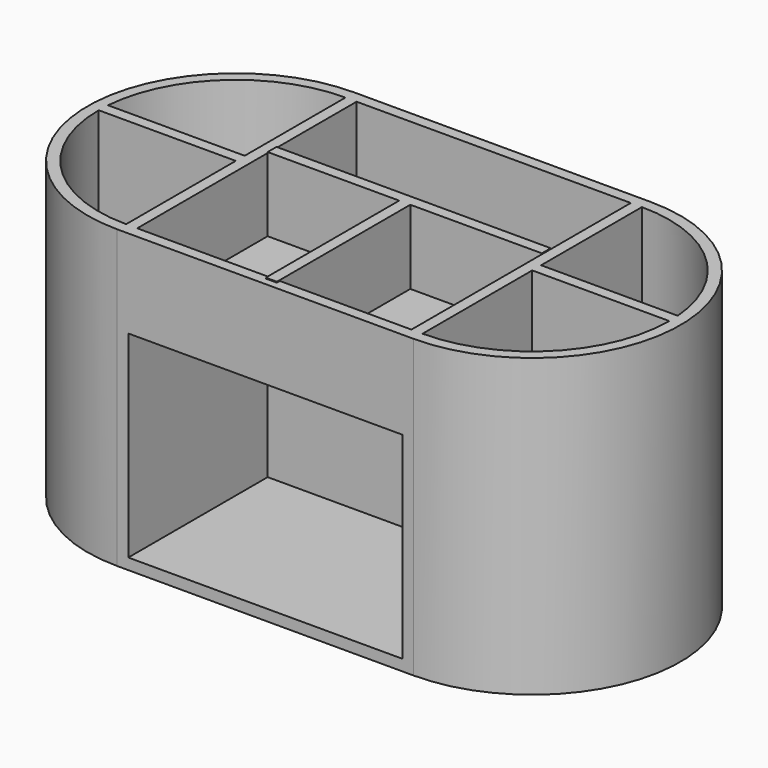
from build123d import *

# Parameters (mm, degrees)
F0_W      = 50.8
F0_H      = 101.6
F1_DEPTH  = 101.6
F4_DEPTH  = 101.6
F5_T      = -3.81
F6_W      = 3.81
F6_H      = 101.6
F7_DEPTH  = 101.6
F8_DEPTH  = 25.4
F9_W      = 50.8
F9_H      = 5.08
F10_DEPTH = 63.5
F11_W     = 46.99
F11_H     = 3.81
F12_DEPTH = 25.4
F13_DEPTH = 101.6
F14_DEPTH = 25.4
F15_W     = 1.905
F15_H     = 25.4
F16_DEPTH = 57.15
F18_W     = 3.81
F18_H     = 97.79
F19_DEPTH = 49.53


with BuildPart() as f1:
    # F0 (on Top) → F1 (new body)
    with BuildSketch(Plane.XY):
        with Locations((25.4, -50.8)):
            Rectangle(F0_W, F0_H)
    extrude(amount=F1_DEPTH)

    # F2 (on face) → F4 (join)
    with BuildSketch(Plane.XY.offset(101.6)):
        with BuildLine():
            Line((50.8, 0), (50.8, -101.6))
            ThreePointArc((50.8, -101.6), (101.6, -50.8), (50.8, 0))
        make_face()
    extrude(amount=-F4_DEPTH)

    # F5
    f5_openings = [f1.faces().sort_by_distance(p)[0] for p in [
        (46.057827, -50.8, 101.6),
    ]]
    offset(amount=F5_T, openings=f5_openings)

    # F6 (on face) → F7 (join)
    with BuildSketch(Plane.XZ.offset(101.6)):
        with Locations((48.895, 50.8)):
            Rectangle(F6_W, F6_H)
    extrude(amount=-F7_DEPTH)

    # F8 (cut): a face of the model
    f8_faces = [f1.faces().sort_by_distance(p)[0] for p in [
        (3.81, -50.8, 52.705),
    ]]
    extrude(f8_faces, amount=-F8_DEPTH, mode=Mode.SUBTRACT)

    # F9 (on face) → F10 (join)
    with BuildSketch(Plane.XZ.offset(101.6)):
        with Locations((25.4, 73.9570113206)):
            Rectangle(F9_W, F9_H)
    extrude(amount=-F10_DEPTH)

    # F11 (on face) → F12 (join)
    with BuildSketch(Plane.XY.offset(76.4970113206)):
        with Locations((23.495, -40.005)):
            Rectangle(F11_W, F11_H)
    extrude(amount=F12_DEPTH)

    # F13 (add): a face of the model
    f13_faces = [f1.faces().sort_by_distance(p)[0] for p in [
        (23.495, -40.005, 101.8970113206),
    ]]
    extrude(f13_faces, amount=-F13_DEPTH)

    # F14 (cut): a face of the model
    f14_faces = [f1.faces().sort_by_distance(p)[0] for p in [
        (23.495, -97.79, 37.6135056603),
    ]]
    extrude(f14_faces, amount=-F14_DEPTH, mode=Mode.SUBTRACT)

    # F15 (on face) → F16 (join)
    with BuildSketch(Plane.XZ.offset(41.91)):
        with Locations((0.9525, 89.1970113206)):
            Rectangle(F15_W, F15_H)
    extrude(amount=F16_DEPTH)

    # F17: F1 across plane


with BuildPart() as f1_1:
    add(f1.part)
    add(f1.part.mirror(Plane.YZ))

    # F18 (on face) → F19 (join)
    with BuildSketch(Plane(origin=(-50.8, 0, 0), x_dir=(0, -1, 0), z_dir=(-1, 0, 0))):
        with Locations((48.895, 52.705)):
            Rectangle(F18_W, F18_H)
    extrude(amount=F19_DEPTH)

    # F20: F1 across plane


with BuildPart() as f1_2:
    add(f1_1.part)
    add(f1_1.part.mirror(Plane.YZ))


solid = f1_2.part
